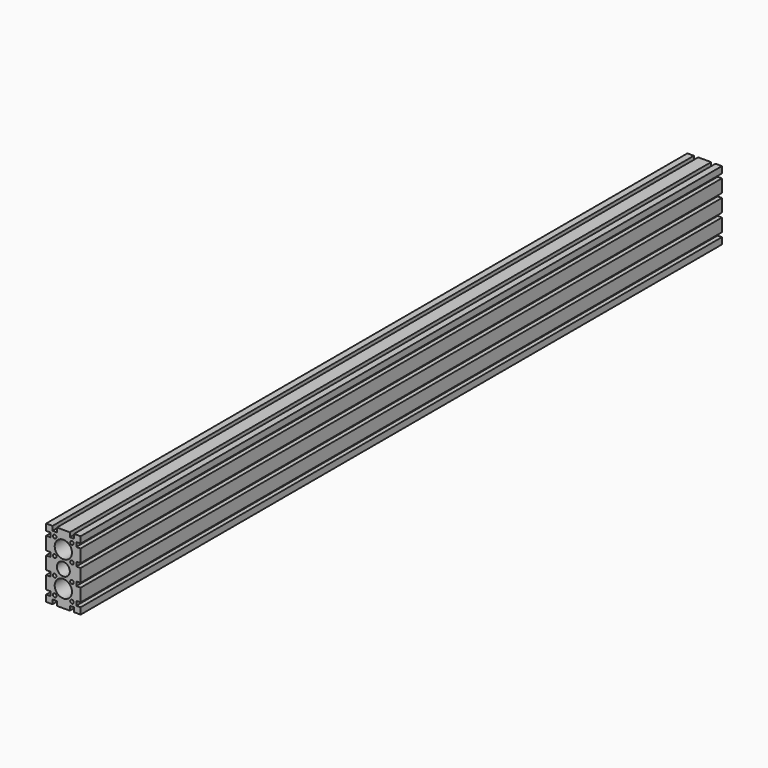
from build123d import *

# Parameters (mm, degrees)
F0_R     = 2.6035
F0_R_2   = 12.7
F0_R_3   = 9.525
F1_DEPTH = 590


with BuildPart() as f1:
    # F0 (on Front) → F1 (new body, symmetric)
    with BuildSketch(Plane.XZ):
        Polygon((15.875, -50.8), (25.4, -50.8), (25.4, -41.275), (19.05, -41.275), (19.05, -34.925), (25.4, -34.925), (25.4, -15.875), (19.05, -15.875), (19.05, -9.525), (25.4, -9.525), (25.4, 9.525), (19.05, 9.525), (19.05, 15.875), (25.4, 15.875), (25.4, 34.925), (19.05, 34.925), (19.05, 41.275), (25.4, 41.275), (25.4, 50.8), (15.875, 50.8), (15.875, 44.45), (9.525, 44.45), (9.525, 50.8), (-9.525, 50.8), (-9.525, 44.45), (-15.875, 44.45), (-15.875, 50.8), (-25.4, 50.8), (-25.4, 41.275), (-19.05, 41.275), (-19.05, 34.925), (-25.4, 34.925), (-25.4, 15.875), (-19.05, 15.875), (-19.05, 9.525), (-25.4, 9.525), (-25.4, -9.525), (-19.05, -9.525), (-19.05, -15.875), (-25.4, -15.875), (-25.4, -34.925), (-19.05, -34.925), (-19.05, -41.275), (-25.4, -41.275), (-25.4, -50.8), (-15.875, -50.8), (-15.875, -44.45), (-9.525, -44.45), (-9.525, -50.8), (9.525, -50.8), (9.525, -44.45), (15.875, -44.45), align=None)
        with Locations((-12.7, -38.1)):
            Circle(F0_R, mode=Mode.SUBTRACT)
        with Locations((0, -25.4)):
            Circle(F0_R_2, mode=Mode.SUBTRACT)
        with Locations((-12.7, -12.7)):
            Circle(F0_R, mode=Mode.SUBTRACT)
        Circle(F0_R_3, mode=Mode.SUBTRACT)
        with Locations((12.7, -38.1)):
            Circle(F0_R, mode=Mode.SUBTRACT)
        with Locations((12.7, -12.7)):
            Circle(F0_R, mode=Mode.SUBTRACT)
        with Locations((-12.7, 12.7)):
            Circle(F0_R, mode=Mode.SUBTRACT)
        with Locations((0, 25.4)):
            Circle(F0_R_2, mode=Mode.SUBTRACT)
        with Locations((-12.7, 38.1)):
            Circle(F0_R, mode=Mode.SUBTRACT)
        with Locations((12.7, 12.7)):
            Circle(F0_R, mode=Mode.SUBTRACT)
        with Locations((12.7, 38.1)):
            Circle(F0_R, mode=Mode.SUBTRACT)
    extrude(amount=F1_DEPTH, both=True)


solid = f1.part
